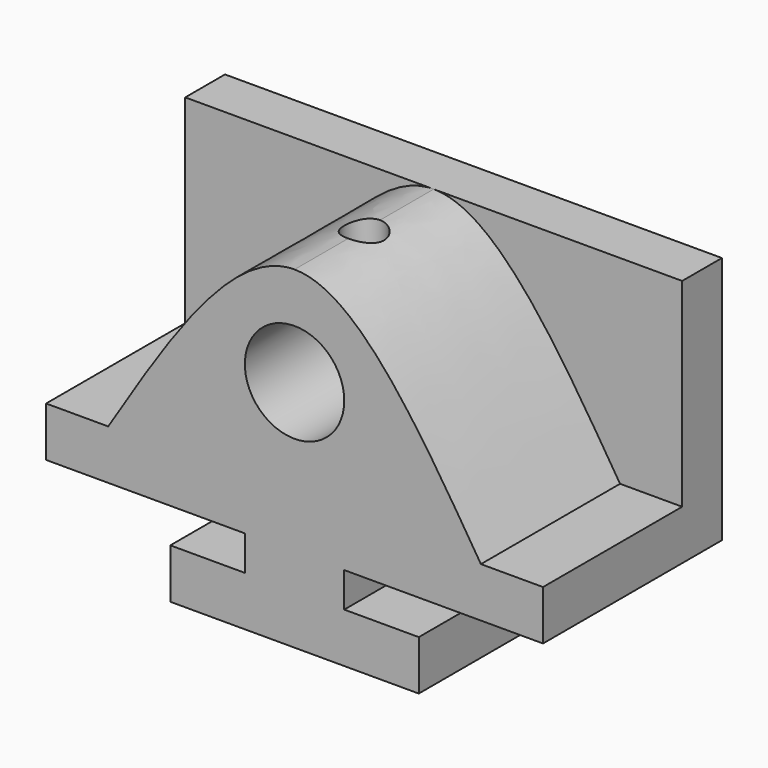
from build123d import *

# Parameters (mm, degrees)
F0_W     = 127
F0_H     = 85.09
F1_DEPTH = 57.15
F2_R     = 12.7
F3_DEPTH = 57.15
F4_R     = 5.08
F5_DEPTH = 25.4
F6_DEPTH = 44.45


with BuildPart() as f1:
    # F0 (on Front) → F1 (new body)
    with BuildSketch(Plane.XZ):
        with Locations((63.5, 42.545)):
            Rectangle(F0_W, F0_H)
    extrude(amount=-F1_DEPTH)

    # F2 (on face) → F3 (cut)
    with BuildSketch(Plane.XZ):
        Polygon((95.25, 12.7), (95.25, 0), (127, 0), (127, 21.59), (76.2, 21.59), (76.2, 12.7), align=None)
        Polygon((0, 0), (31.75, 0), (31.75, 12.7), (50.8, 12.7), (50.8, 21.59), (0, 21.59), align=None)
        with Locations((63.5, 59.69)):
            Circle(F2_R)
    extrude(amount=-F3_DEPTH, mode=Mode.SUBTRACT)

    # F4 (on face) → F5 (cut)
    with BuildSketch(Plane.XY.offset(85.09)):
        with Locations((63.5, 22.225)):
            Circle(F4_R)
    extrude(amount=-F5_DEPTH, mode=Mode.SUBTRACT)

    # F2 (on face) → F6 (cut)
    with BuildSketch(Plane.XZ):
        with BuildLine():
            Line((0, 85.09), (0, 34.29))
            Line((0, 34.29), (15.875, 34.29))
            add(Edge.make_bspline(
                [(15.875, 34.29), (31.75, 59.69), (47.625, 85.09), (63.5, 85.09)],
                knots=[0, 0, 0, 0, 0.5, 0.5, 0.5, 0.5], degree=3))
            Line((63.5, 85.09), (0, 85.09))
        make_face()
        with BuildLine():
            Line((111.125, 34.29), (127, 34.29))
            Line((127, 34.29), (127, 85.09))
            Line((127, 85.09), (63.5, 85.09))
            add(Edge.make_bspline(
                [(63.5, 85.09), (79.375, 85.09), (95.25, 59.69), (111.125, 34.29)],
                knots=[0.5, 0.5, 0.5, 0.5, 1, 1, 1, 1], degree=3))
        make_face()
    extrude(amount=-F6_DEPTH, mode=Mode.SUBTRACT)


solid = f1.part
